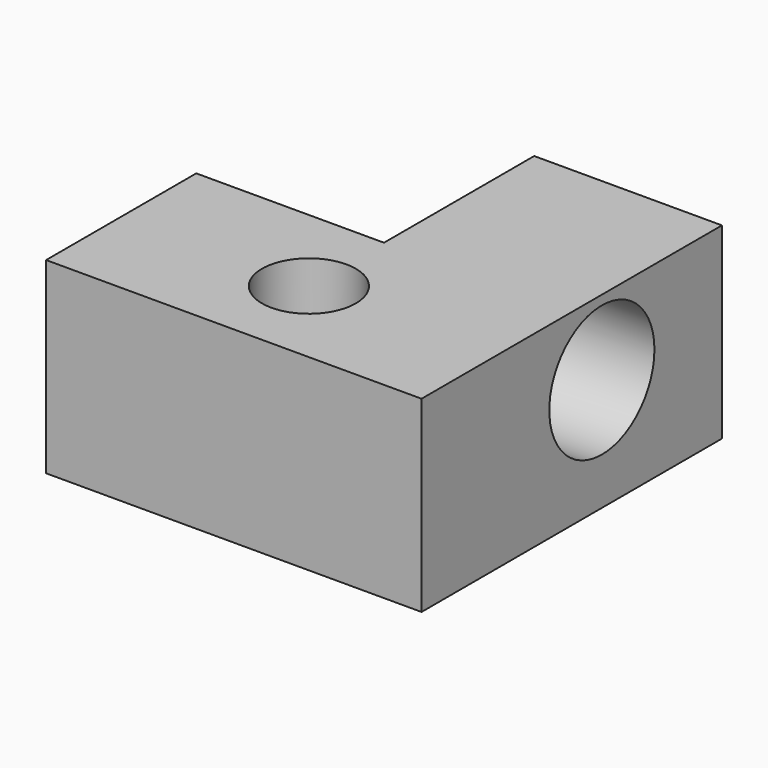
from build123d import *

# Parameters (mm, degrees)
F0_R     = 6.35
F1_DEPTH = 25.4
F2_R     = 8.89
F3_DEPTH = 50.8


with BuildPart() as f1:
    # F0 (on Top) → F1 (new body)
    with BuildSketch(Plane.XY):
        Polygon((-50.8, 0), (0, 0), (0, 50.8), (-25.4, 50.8), (-25.4, 25.4), (-50.8, 25.4), align=None)
        with Locations((-25.4, 12.7)):
            Circle(F0_R, mode=Mode.SUBTRACT)
    extrude(amount=F1_DEPTH)

    # F2 (on face) → F3 (cut)
    with BuildSketch(Plane.YZ):
        with Locations((30.494969, 15.24)):
            Circle(F2_R)
    extrude(amount=-F3_DEPTH, mode=Mode.SUBTRACT)


solid = f1.part
